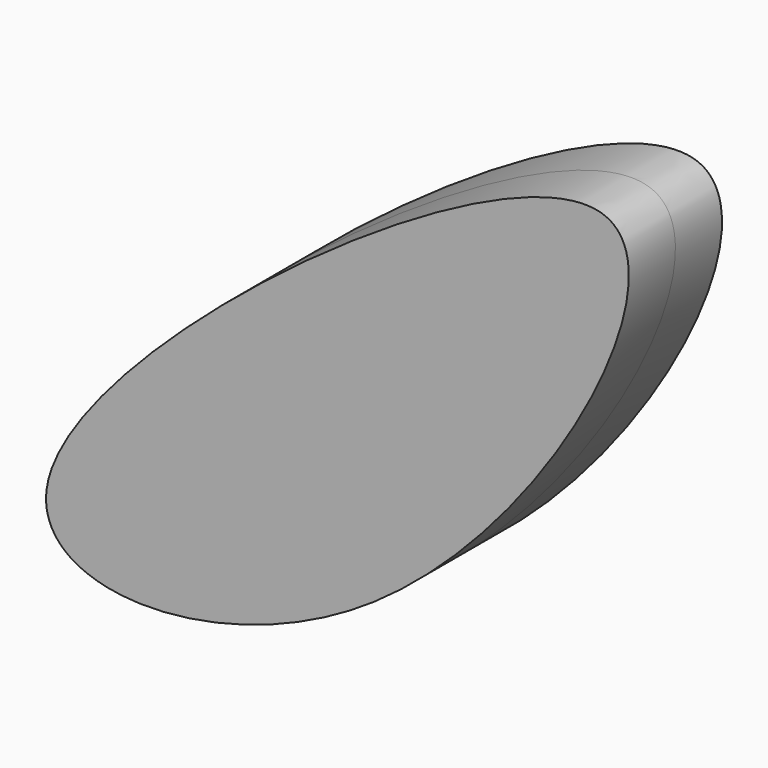
from build123d import *

# Parameters (mm, degrees)
F1_DEPTH = 0.79375


with BuildPart() as f1:
    # F0 (on Front) → F1 (new body, symmetric)
    with BuildSketch(Plane.XZ):
        with BuildLine():
            add(Edge.make_bspline(
                [(-7.5744732217, 0), (-7.726696356, -1.2336485251), (-2.3026567307, -1.4048258672), (3.5124027959, 9.9041265374), (-7.3479824296, 1.8355293556), (-7.5744732217, 0)],
                knots=[0, 0, 0, 0, 0.2680998717, 0.60109774, 1, 1, 1, 1], degree=3))
        make_face()
    extrude(amount=F1_DEPTH, both=True)


solid = f1.part
